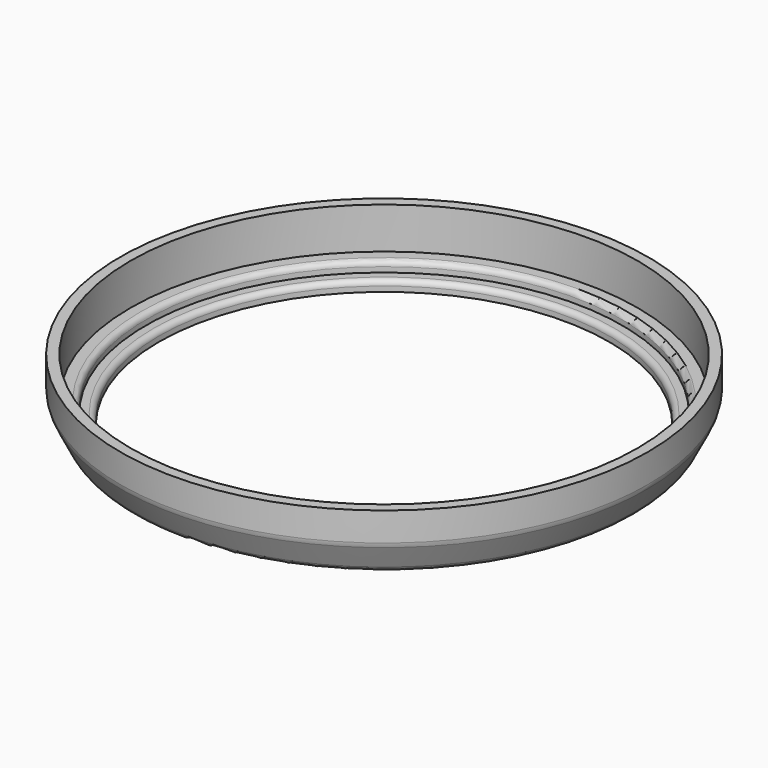
from build123d import *

# Parameters (mm, degrees)
F0_R     = 46
F0_R_2   = 43.5
F1_DEPTH = 2
F0_R_3   = 49
F2_DEPTH = 4
F0_R_4   = 51
F3_DEPTH = 12
F4_R     = 1
F5_SIZE2 = 3
F5_SIZE  = 6
F6_R     = 2


with BuildPart() as f1:
    # F0 (on Top) → F1 (new body)
    with BuildSketch(Plane.XY):
        Circle(F0_R)
        Circle(F0_R_2, mode=Mode.SUBTRACT)
    extrude(amount=F1_DEPTH)

    # F0 (on Top) → F2 (join)
    with BuildSketch(Plane.XY):
        Circle(F0_R_3)
        Circle(F0_R, mode=Mode.SUBTRACT)
    extrude(amount=F2_DEPTH)

    # F0 (on Top) → F3 (join)
    with BuildSketch(Plane.XY):
        Circle(F0_R_4)
        Circle(F0_R_3, mode=Mode.SUBTRACT)
    extrude(amount=F3_DEPTH)

    # F4
    f4_edges = [f1.edges().sort_by_distance(p)[0] for p in [
        (-43.5, 0, 2),
        (-46, 0, 4),
    ]]
    fillet(f4_edges, radius=F4_R)

    # F5
    f5_edges = [f1.edges().sort_by_distance(p)[0] for p in [
        (-51, 0, 0),
    ]]
    f5_side = f1.faces().sort_by_distance((-51, 0, 6))[0]
    chamfer(f5_edges, length=F5_SIZE, length2=F5_SIZE2, reference=f5_side)

    # F6
    f6_edges = [f1.edges().sort_by_distance(p)[0] for p in [
        (-51, 0, 6),
        (49.5, 0, 3),
        (-48, 0, 0),
    ]]
    fillet(f6_edges, radius=F6_R)


solid = f1.part
